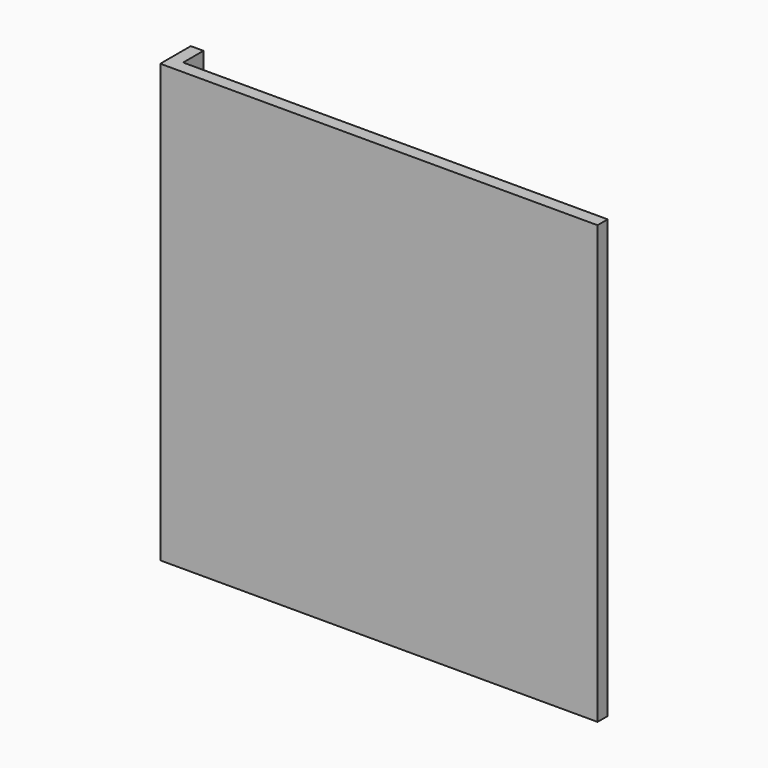
from build123d import *

# Parameters (mm, degrees)
F0_W     = 172
F0_H     = 172
F1_DEPTH = 5
F2_W     = 15
F2_H     = 172
F3_DEPTH = 5


with BuildPart() as f1:
    # F0 (on Front) → F1 (new body)
    with BuildSketch(Plane.XZ):
        with Locations((0, -86)):
            Rectangle(F0_W, F0_H)
    extrude(amount=F1_DEPTH)

    # F2 (on face) → F3 (join)
    with BuildSketch(Plane(origin=(-86, 0, 0), x_dir=(0, -1, 0), z_dir=(-1, 0, 0))):
        with Locations((-2.5, -86)):
            Rectangle(F2_W, F2_H)
    extrude(amount=-F3_DEPTH)


solid = f1.part
